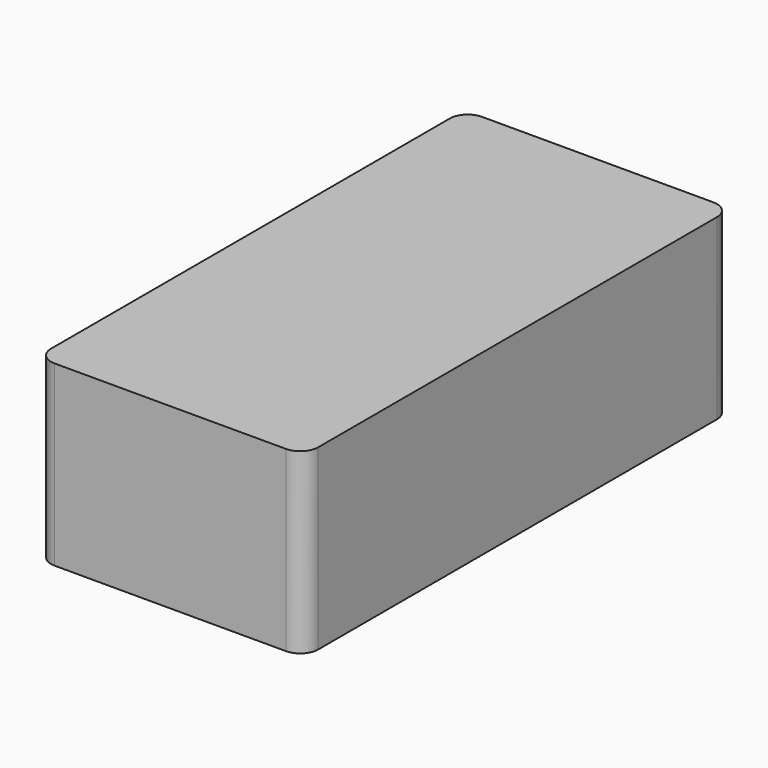
from build123d import *

# Parameters (mm, degrees)
F0_W     = 38.1
F0_H     = 76.2
F1_DEPTH = 25.4
F3_DEPTH = 22.86
F4_D     = 2.2606
F4_DEPTH = 14.605
F4_TIP   = 0.6791527577
F5_R     = 2.54


with BuildPart() as f1:
    # F0 (on Top) → F1 (new body)
    with BuildSketch(Plane.XY):
        Rectangle(F0_W, F0_H)
    extrude(amount=F1_DEPTH)

    # F2 (on Top) → F3 (cut)
    with BuildSketch(Plane.XY):
        Polygon((10.16, 36.1509363616), (-10.16, 36.1509363616), (-10.16, 29.8009363616), (-16.51, 29.8009363616), (-16.51, -28.6190636384), (-10.16, -28.6190636384), (-10.16, -34.9690636384), (10.16, -34.9690636384), (10.16, -28.6190636384), (16.51, -28.6190636384), (16.51, 29.8009363616), (10.16, 29.8009363616), align=None)
    extrude(amount=F3_DEPTH, mode=Mode.SUBTRACT)

    # F4
    with Locations(Plane(origin=(0, 0, 0), x_dir=(1, 0, 0), z_dir=(0, 0, -1))):
        with Locations((-14.605, -33.655), (14.605, -33.655), (14.605, 33.655), (-14.605, 33.0640636384)):
            Hole(F4_D / 2, depth=F4_DEPTH)
            with Locations((0, 0, -(F4_DEPTH + F4_TIP / 2))):  # 118° drill point
                Cone(0, F4_D / 2, F4_TIP, mode=Mode.SUBTRACT)

    # F5
    f5_edges = [f1.edges().sort_by_distance(p)[0] for p in [
        (19.05, -38.1, 12.7),
        (-19.05, -38.1, 12.7),
        (-19.05, 38.1, 12.7),
        (19.05, 38.1, 12.7),
    ]]
    fillet(f5_edges, radius=F5_R)


solid = f1.part
